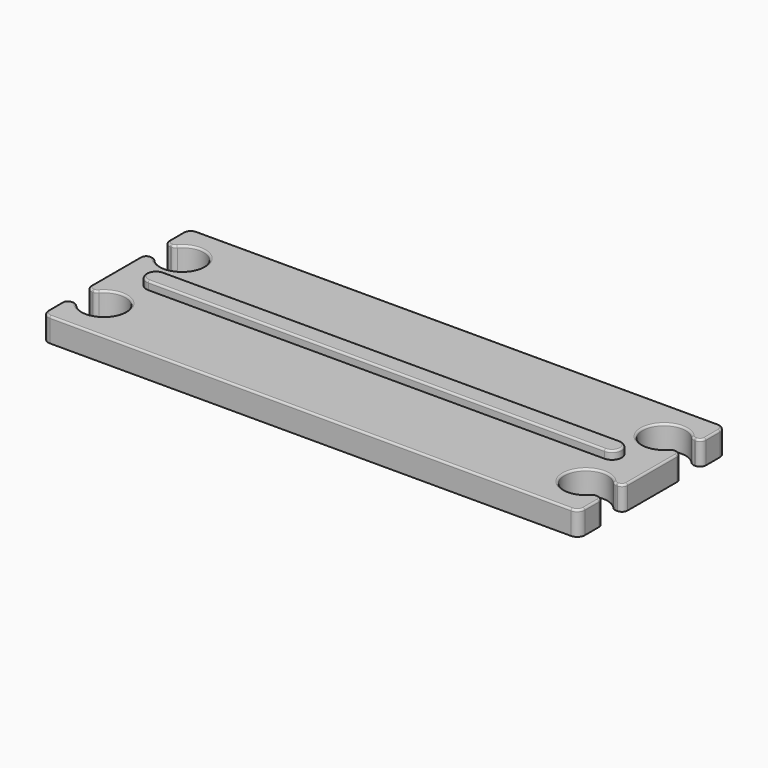
from build123d import *

# Parameters (mm, degrees)
SKETCH019_W                 = 56
SKETCH019_H                 = 19.2
PAD002001003004001002_DEPTH = 2.5
POCKET008_DEPTH             = 121.006527
PAD002001003004001003_DEPTH = 0.86
FILLET003002_R              = 0.8
FILLET003003_R              = 0.6
FILLET003004_R              = 0.2
FILLET003005_R              = 0.2


with BuildPart() as part:
    # Sketch019 → Pad002001003004001002 (new body)
    with BuildSketch(Plane.XY):
        Rectangle(SKETCH019_W, SKETCH019_H)
    extrude(amount=PAD002001003004001002_DEPTH)

    # Sketch020 (on Face6 of Pad002001003004001002) → Pocket008 (cut, through all)
    with BuildSketch(Plane.XY.offset(2.5)):
        with BuildLine():
            ThreePointArc((27.000432, 6.38), (22.9, 5.1), (27.000432, 3.82))
            Line((29.000432, 3.82), (27.000432, 3.82))
            Line((29.000432, 6.38), (29.000432, 3.82))
            Line((27.000432, 6.38), (29.000432, 6.38))
        make_face()
        with BuildLine():
            ThreePointArc((27.000432, -3.82), (22.9, -5.1), (27.000432, -6.38))
            Line((29.000432, -6.38), (27.000432, -6.38))
            Line((29.000432, -3.82), (29.000432, -6.38))
            Line((27.000432, -3.82), (29.000432, -3.82))
        make_face()
    pocket008 = extrude(amount=-POCKET008_DEPTH, mode=Mode.SUBTRACT)

    # Mirrored001: Pocket008 across Sketch020 V_Axis
    add(pocket008.mirror(Plane(origin=(0, 0, 2.5), x_dir=(0, 0, 1), z_dir=(1, 0, 0))), mode=Mode.SUBTRACT)

    # Sketch021 (on Face5 of Mirrored001) → Pad002001003004001003 (new body)
    with BuildSketch(Plane.XY.offset(2.5)):
        with BuildLine():
            ThreePointArc((-23.799993, 1), (-24.8, 0), (-23.799994, -1))
            Line((-23.799994, -1), (23.799994, -1))
            ThreePointArc((23.799994, -1), (24.8, 0), (23.799993, 1))
            Line((-23.799993, 1), (23.799993, 1))
        make_face()
    extrude(amount=PAD002001003004001003_DEPTH)

    # Fillet003002
    fillet003002_edges = [part.edges().sort_by_distance(p)[0] for p in [
        (-28, 9.6, 1.25),
        (28, 9.6, 1.25),
        (-28, -9.6, 1.25),
        (28, -9.6, 1.25),
    ]]
    fillet(fillet003002_edges, radius=FILLET003002_R)

    # Fillet003003
    fillet003003_edges = [part.edges().sort_by_distance(p)[0] for p in [
        (-28, 6.38, 1.25),
        (28, 6.38, 1.25),
        (-27.000432, 6.38, 1.25),
        (27.000432, 6.38, 1.25),
        (-27.000432, 3.82, 1.25),
        (27.000432, 3.82, 1.25),
        (-28, 3.82, 1.25),
        (28, 3.82, 1.25),
        (-28, -3.82, 1.25),
        (28, -3.82, 1.25),
        (-27.000432, -3.82, 1.25),
        (27.000432, -3.82, 1.25),
        (-27.000432, -6.38, 1.25),
        (27.000432, -6.38, 1.25),
        (-28, -6.38, 1.25),
        (28, -6.38, 1.25),
    ]]
    fillet(fillet003003_edges, radius=FILLET003003_R)

    # Fillet003004
    fillet003004_edges = [part.edges().sort_by_distance(p)[0] for p in [
        (0, -9.6, 2.5),
    ]]
    fillet(fillet003004_edges, radius=FILLET003004_R)

    # Fillet003005
    fillet003005_edges = [part.edges().sort_by_distance(p)[0] for p in [
        (0, -1, 3.36),
    ]]
    fillet(fillet003005_edges, radius=FILLET003005_R)


solid = part.part
